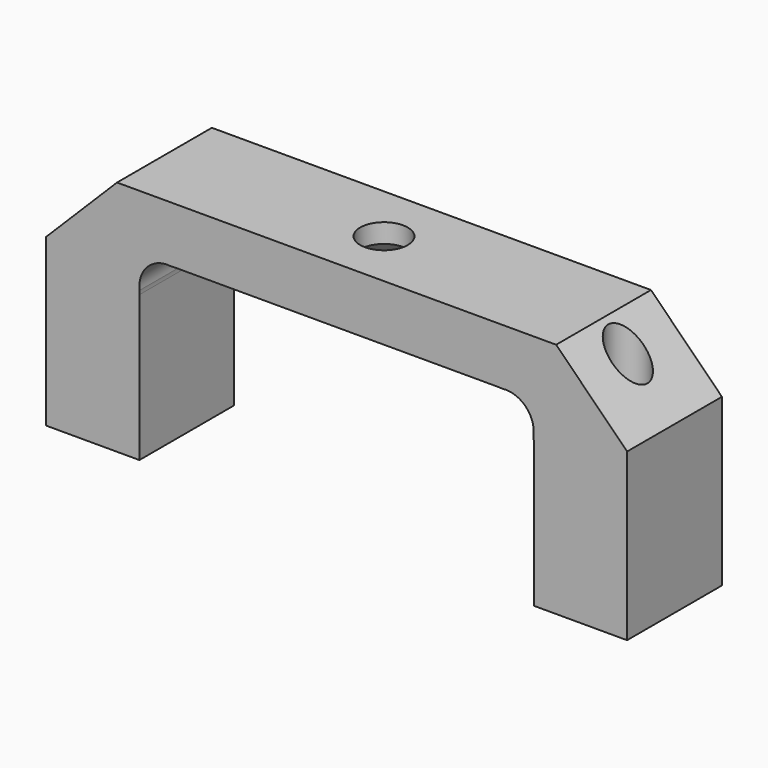
from build123d import *

# Parameters (mm, degrees)
F1_DEPTH        = 6.35
F4_D            = 4.2
F6_DEPTH        = 12.701
F8_DEPTH        = 12.701
F2_R            = 5.5
F9_DEPTH        = 1
F11_D           = 5.1
F11_CSINK_D     = 11
F11_CSINK_ANGLE = 90


with BuildPart() as f1:
    # F0 (on Front) → F1 (new body, symmetric)
    with BuildSketch(Plane.XZ):
        Polygon((-31.125, 17.8), (-31.125, 0), (-21.125, 0), (-21.125, 11.8), (-13.525, 19.4), (13.525, 19.4), (21.125, 11.8), (21.125, 0), (31.125, 0), (31.125, 17.8), (23.525, 25.4), (-23.525, 25.4), align=None)
    extrude(amount=F1_DEPTH, both=True)

    # F4 (through all)
    with Locations(Plane(origin=(0, 0, 0), x_dir=(1, 0, 0), z_dir=(0, 0, -1))):
        with Locations((-26.125, 0), (26.125, 0)):
            Hole(F4_D / 2)

    # F5 (on face) → F6 (cut, through all)
    with BuildSketch(Plane.XZ.offset(6.35)):
        with BuildLine():
            ThreePointArc((-14.6379942315, 18.2870057685), (-15.870802957, 19.1107422235), (-17.325, 19.4))
            ThreePointArc((-17.325, 19.4), (-20.0120057685, 18.2870057685), (-21.125, 15.6))
            ThreePointArc((-21.125, 15.6), (-20.8357422235, 14.145802957), (-20.0120057685, 12.9129942315))
            Line((-20.0120057685, 12.9129942315), (-14.6379942315, 18.2870057685))
        make_face()
        with BuildLine():
            Line((-13.525, 19.4), (-17.325, 19.4))
            ThreePointArc((-17.325, 19.4), (-15.870802957, 19.1107422235), (-14.6379942315, 18.2870057685))
            Line((-14.6379942315, 18.2870057685), (-13.525, 19.4))
        make_face()
        with BuildLine():
            ThreePointArc((-20.0120057685, 12.9129942315), (-20.8357422235, 14.145802957), (-21.125, 15.6))
            Line((-21.125, 15.6), (-21.125, 11.8))
            Line((-21.125, 11.8), (-20.0120057685, 12.9129942315))
        make_face()
        with BuildLine():
            ThreePointArc((21.125, 15.6), (20.0120057685, 18.2870057685), (17.325, 19.4))
            ThreePointArc((17.325, 19.4), (15.870802957, 19.1107422235), (14.6379942315, 18.2870057685))
            Line((14.6379942315, 18.2870057685), (20.0120057685, 12.9129942315))
            ThreePointArc((20.0120057685, 12.9129942315), (20.8357422235, 14.145802957), (21.125, 15.6))
        make_face()
        with BuildLine():
            Line((17.325, 19.4), (13.525, 19.4))
            Line((13.525, 19.4), (14.6379942315, 18.2870057685))
            ThreePointArc((14.6379942315, 18.2870057685), (15.870802957, 19.1107422235), (17.325, 19.4))
        make_face()
        with BuildLine():
            Line((21.125, 11.8), (21.125, 15.6))
            ThreePointArc((21.125, 15.6), (20.8357422235, 14.145802957), (20.0120057685, 12.9129942315))
            Line((20.0120057685, 12.9129942315), (21.125, 11.8))
        make_face()
    extrude(amount=-F6_DEPTH, mode=Mode.SUBTRACT)

    # F7 (on face) → F8 (cut, through all)
    with BuildSketch(Plane.XZ.offset(6.35)):
        with BuildLine():
            ThreePointArc((-21.1013054614, 16.0236945386), (-20.0120057685, 18.2870057685), (-17.7486945386, 19.3763054614))
            ThreePointArc((-17.7486945386, 19.3763054614), (-20.2463203436, 18.5213203436), (-21.1013054614, 16.0236945386))
        make_face()
        with BuildLine():
            ThreePointArc((21.125, 16.4), (20.1088200039, 18.6504351117), (17.7486945386, 19.3763054614))
            ThreePointArc((17.7486945386, 19.3763054614), (20.0120057685, 18.2870057685), (21.1013054614, 16.0236945386))
            ThreePointArc((21.1013054614, 16.0236945386), (21.1190705055, 16.2114746493), (21.125, 16.4))
        make_face()
    extrude(amount=-F8_DEPTH, mode=Mode.SUBTRACT)

    # F2 (on face) → F9 (cut)
    with BuildSketch(Plane(origin=(0, 0, 19.4), x_dir=(1, 0, 0), z_dir=(0, 0, -1))):
        Circle(F2_R)
    extrude(amount=-F9_DEPTH, mode=Mode.SUBTRACT)

    # F11 (through all)
    with Locations(Plane(origin=(0, 0, 20.4), x_dir=(1, 0, 0), z_dir=(0, 0, -1))):
        with Locations((0, 0)):
            CounterSinkHole(F11_D / 2, F11_CSINK_D / 2, counter_sink_angle=F11_CSINK_ANGLE)


solid = f1.part
